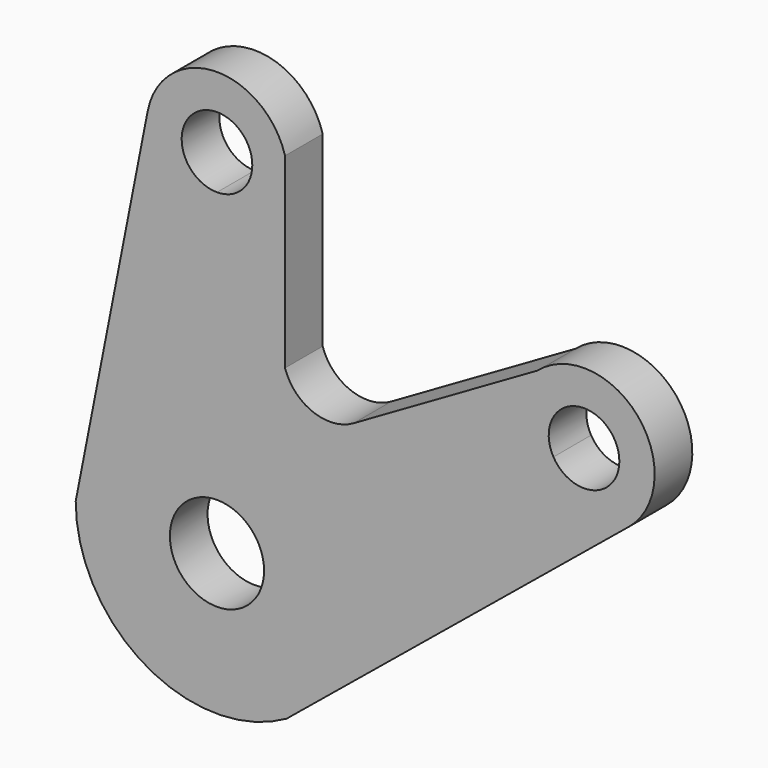
from build123d import *

# Parameters (mm, degrees)
F1_DEPTH = 10


with BuildPart() as f1:
    # F0 (on Front) → F1 (new body)
    with BuildSketch(Plane.XZ):
        with BuildLine():
            ThreePointArc((7.5, 75), (-5.303301, 80.303301), (0, 67.5))
            ThreePointArc((0, 67.5), (5.303301, 69.696699), (7.5, 75))
        make_face()
        with BuildLine():
            ThreePointArc((85.442286, 45), (76.001144, 52.244444), (71.447096, 41.25))
            ThreePointArc((71.447096, 41.25), (79.883429, 37.755556), (85.442286, 45))
        make_face()
        with BuildLine():
            Line((-14.719403, 77.887761), (-30, 0))
            ThreePointArc((-30, 0), (-15.114634, -25.91424), (14.769857, -26.112283))
            Line((14.769857, -26.112283), (87.445142, 33.394151))
            ThreePointArc((87.445142, 33.394151), (89.415912, 54.662086), (68.122808, 56.339217))
            Line((68.122808, 56.339217), (29.023942, 33.765476))
            ThreePointArc((29.023942, 33.765476), (20.396394, 33.05645), (14.448166, 39.345797))
            Line((14.448166, 39.345797), (14.448166, 79.031189))
            ThreePointArc((14.448166, 79.031189), (-0.587579, 89.988487), (-14.719403, 77.887761))
        make_face()
        with BuildLine():
            ThreePointArc((8.660254, 5), (9.659258, 2.58819), (10, 0))
            ThreePointArc((10, 0), (-7.071068, -7.071068), (0, 10))
            ThreePointArc((0, 10), (5, 8.660254), (8.660254, 5))
        make_face(mode=Mode.SUBTRACT)
        with BuildLine():
            ThreePointArc((7.5, 75), (5.303301, 69.696699), (0, 67.5))
            ThreePointArc((0, 67.5), (-5.303301, 80.303301), (7.5, 75))
        make_face(mode=Mode.SUBTRACT)
        with BuildLine():
            ThreePointArc((85.442286, 45), (79.883429, 37.755556), (71.447096, 41.25))
            ThreePointArc((71.447096, 41.25), (76.001144, 52.244444), (85.442286, 45))
        make_face(mode=Mode.SUBTRACT)
    extrude(amount=F1_DEPTH)


solid = f1.part
